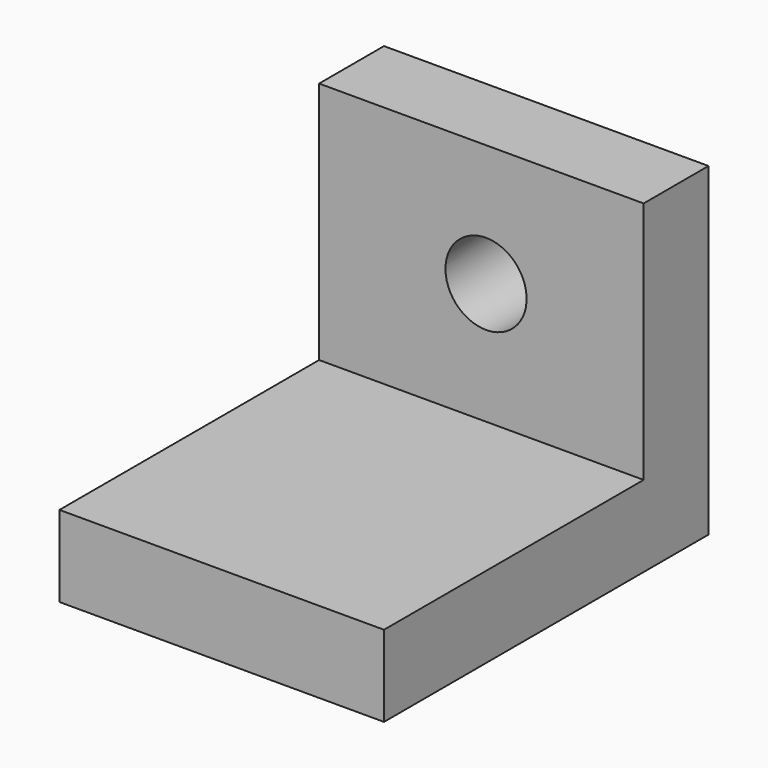
from build123d import *

# Parameters (mm, degrees)
F0_W     = 50.8
F0_H     = 50.8
F1_DEPTH = 12.7
F3_D     = 12.7
F4_W     = 50.8
F4_H     = 12.7
F5_DEPTH = 50.8


with BuildPart() as f1:
    # F0 (on Front) → F1 (new body)
    with BuildSketch(Plane.XZ):
        with Locations((-7.470491, 7.556502)):
            Rectangle(F0_W, F0_H)
    extrude(amount=F1_DEPTH)

    # F3 (through all)
    with Locations(Plane.XZ.offset(12.7)):
        with Locations((-6.73717, 13.850607)):
            Hole(F3_D / 2)

    # F4 (on face) → F5 (join)
    with BuildSketch(Plane.XZ.offset(12.7)):
        with Locations((-7.470491, -11.493498)):
            Rectangle(F4_W, F4_H)
    extrude(amount=F5_DEPTH)


solid = f1.part
